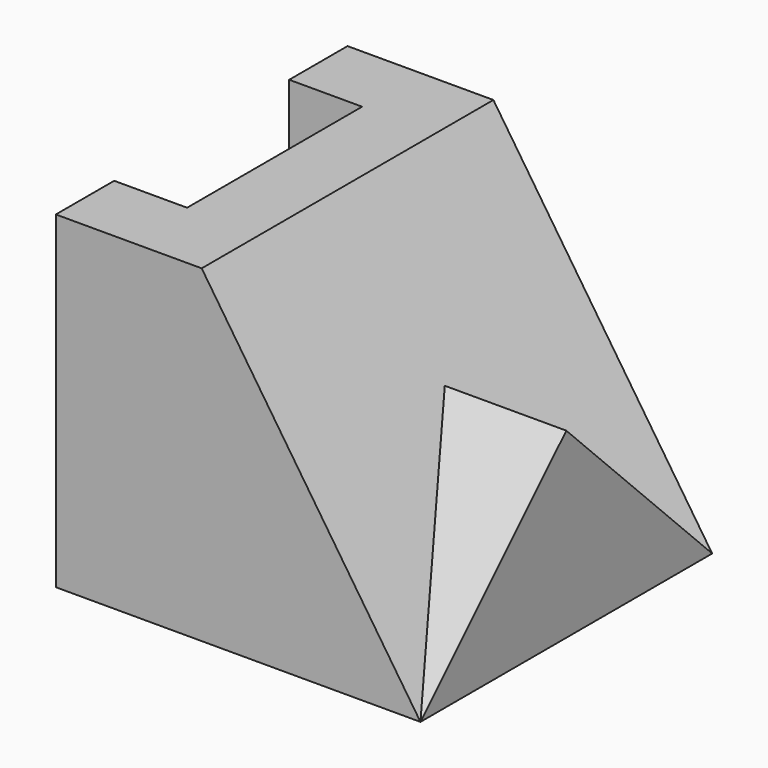
from build123d import *

# Parameters (mm, degrees)
F1_DEPTH = 10
F2_W     = 2
F2_H     = 6
F3_DEPTH = 9.001


with BuildPart() as f1:
    # F0 (on Front) → F1 (new body)
    with BuildSketch(Plane.XZ):
        Polygon((-6, 9), (-10, 9), (-10, 0), (0, 0), align=None)
    extrude(amount=-F1_DEPTH)

    # F2 (on face) → F3 (cut, through all)
    with BuildSketch(Plane.XY.offset(9)):
        with Locations((-9, 5)):
            Rectangle(F2_W, F2_H)
    extrude(amount=-F3_DEPTH, mode=Mode.SUBTRACT)

    # F4 (on Right) → F5 (join, up to the next surface of F1)
    with BuildSketch(Plane.YZ):
        Polygon((0, 0), (10, 0), (5, 5), align=None)
    extrude(until=Until.NEXT, dir=(-1, 0, 0))


solid = f1.part
